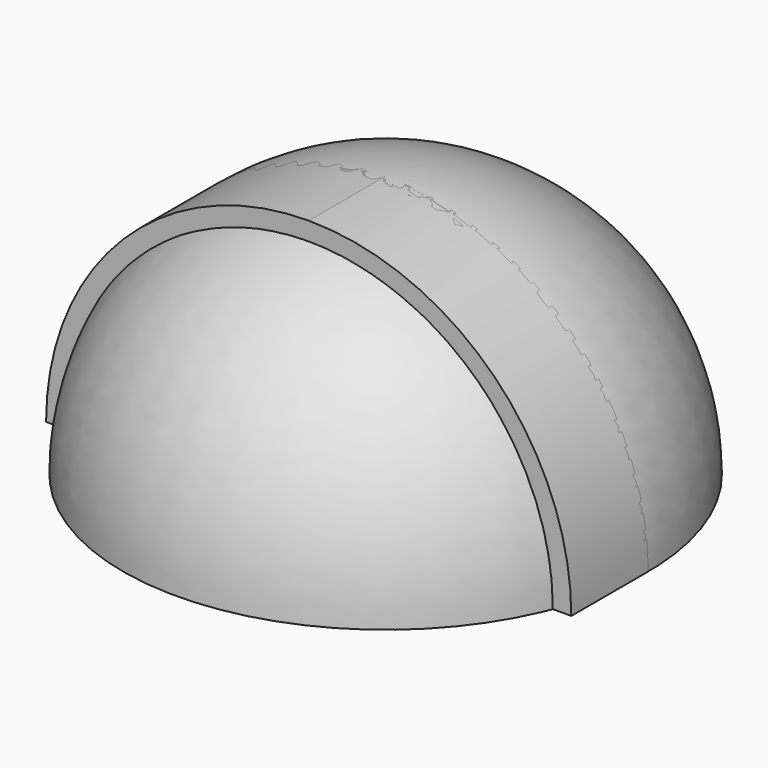
from build123d import *

# Parameters (mm, degrees)
F2_DEPTH = 25.4


with BuildPart() as f1:
    # F0 (on Front) → F1 (revolve)
    with BuildSketch(Plane.XZ):
        with BuildLine():
            Line((0, 0), (0, 69.358025))
            ThreePointArc((0, 69.358025), (-49.04353, 49.04353), (-69.358025, 0))
            Line((-69.358025, 0), (-39.65728, 0))
            Line((-39.65728, 0), (-46.101578, 12.877301))
            Line((-46.101578, 12.877301), (-40.28599, 24.508478))
            Line((-40.28599, 24.508478), (-28.340457, 24.508478))
            Line((-28.340457, 24.508478), (-16.709281, 34.410696))
            Line((-16.709281, 34.410696), (-6.021172, 24.508478))
            Line((-6.021172, 24.508478), (-9.47909, 12.877301))
            Line((-9.47909, 12.877301), (-3.349145, 0))
            Line((-3.349145, 0), (0, 0))
        make_face()
    revolve(axis=Axis((0, 0, 34.679012), (0, 0, 1)))


with BuildPart() as f2:
    # F0 (on Front) → F2 (new body)
    with BuildSketch(Plane.XZ):
        with BuildLine():
            Line((0, 0), (0, 69.358025))
            ThreePointArc((0, 69.358025), (-49.04353, 49.04353), (-69.358025, 0))
            Line((-69.358025, 0), (-39.65728, 0))
            Line((-39.65728, 0), (-46.101578, 12.877301))
            Line((-46.101578, 12.877301), (-40.28599, 24.508478))
            Line((-40.28599, 24.508478), (-28.340457, 24.508478))
            Line((-28.340457, 24.508478), (-16.709281, 34.410696))
            Line((-16.709281, 34.410696), (-6.021172, 24.508478))
            Line((-6.021172, 24.508478), (-9.47909, 12.877301))
            Line((-9.47909, 12.877301), (-3.349145, 0))
            Line((-3.349145, 0), (0, 0))
        make_face()
        with BuildLine():
            Line((0, 0), (69.358025, 0))
            ThreePointArc((69.358025, 0), (49.04353, 49.04353), (0, 69.358025))
            Line((0, 69.358025), (0, 0))
        make_face()
    extrude(amount=F2_DEPTH)


solid = Compound([f1.part, f2.part])
